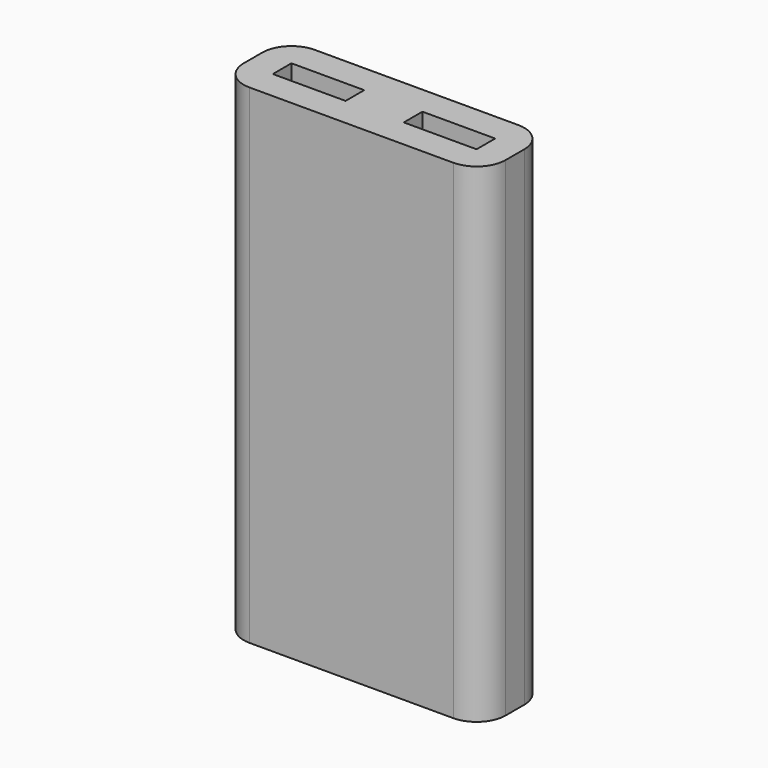
from build123d import *

# Parameters (mm, degrees)
F0_W     = 11.43
F0_H     = 3.556
F0_W_2   = 3.175
F0_H_2   = 1.016
F1_DEPTH = 21.336
F2_R     = 1.27


with BuildPart() as f1:
    # F0 (on Top) → F1 (new body)
    with BuildSketch(Plane.XY):
        Rectangle(F0_W, F0_H)
        with Locations((-2.8575, 0)):
            Rectangle(F0_W_2, F0_H_2, mode=Mode.SUBTRACT)
        with Locations((2.8575, 0)):
            Rectangle(F0_W_2, F0_H_2, mode=Mode.SUBTRACT)
    extrude(amount=F1_DEPTH)

    # F2
    f2_edges = [f1.edges().sort_by_distance(p)[0] for p in [
        (-5.715, -1.778, 10.668),
        (-5.715, 1.778, 10.668),
        (5.715, -1.778, 10.668),
        (5.715, 1.778, 10.668),
    ]]
    fillet(f2_edges, radius=F2_R)


solid = f1.part
